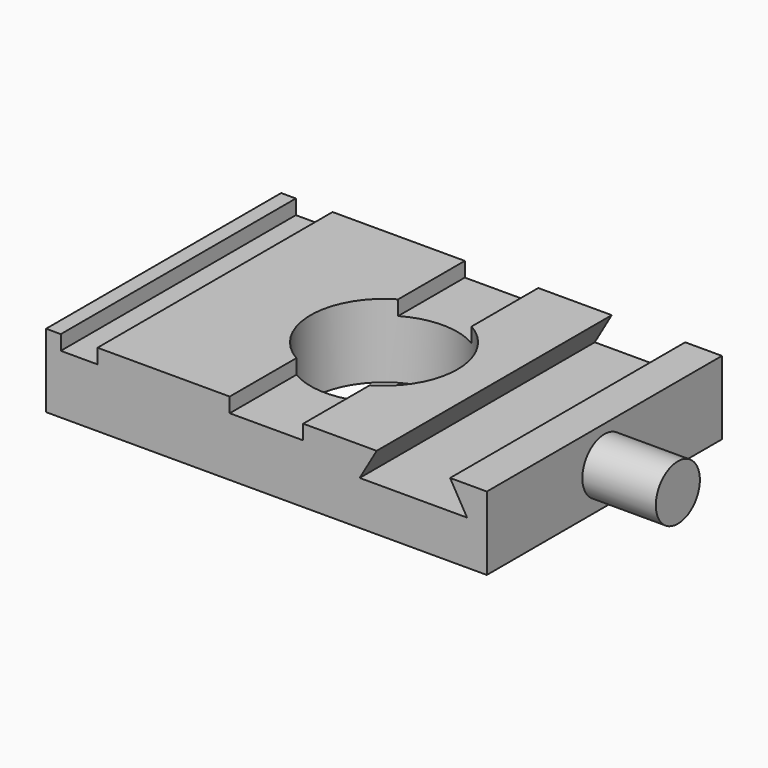
from build123d import *

# Parameters (mm, degrees)
F0_W     = 76.2
F0_H     = 50.8
F0_R     = 12.7
F1_DEPTH = 12.7
F2_W     = 6.35
F2_H     = 50.8
F3_DEPTH = 2.54
F5_DEPTH = 50.801
F6_R     = 4.7625
F7_DEPTH = 12.7


with BuildPart() as f1:
    # F0 (on Top) → F1 (new body)
    with BuildSketch(Plane.XY):
        Rectangle(F0_W, F0_H)
        Circle(F0_R, mode=Mode.SUBTRACT)
    extrude(amount=F1_DEPTH)

    # F2 (on face) → F3 (cut)
    with BuildSketch(Plane.XY.offset(12.7)):
        with Locations((-32.385, 0)):
            Rectangle(F2_W, F2_H)
        with BuildLine():
            Line((-6.35, -10.9985226281), (-6.35, -25.4))
            Line((-6.35, -25.4), (6.35, -25.4))
            Line((6.35, -25.4), (6.35, -10.9985226281))
            ThreePointArc((6.35, -10.9985226281), (0, -12.7), (-6.35, -10.9985226281))
        make_face()
        with BuildLine():
            ThreePointArc((6.35, 10.9985226281), (0, 12.7), (-6.35, 10.9985226281))
            Line((-6.35, 10.9985226281), (-6.35, -10.9985226281))
            ThreePointArc((-6.35, -10.9985226281), (0, -12.7), (6.35, -10.9985226281))
            Line((6.35, -10.9985226281), (6.35, 10.9985226281))
        make_face()
        with BuildLine():
            Line((6.35, 25.4), (-6.35, 25.4))
            Line((-6.35, 25.4), (-6.35, 10.9985226281))
            ThreePointArc((-6.35, 10.9985226281), (0, 12.7), (6.35, 10.9985226281))
            Line((6.35, 10.9985226281), (6.35, 25.4))
        make_face()
    extrude(amount=-F3_DEPTH, mode=Mode.SUBTRACT)

    # F4 (on face) → F5 (cut, through all)
    with BuildSketch(Plane.XZ.offset(25.4)):
        Polygon((31.75, 12.7), (19.05, 12.7), (16.1170606325, 7.62), (34.6829393675, 7.62), align=None)
    extrude(amount=-F5_DEPTH, mode=Mode.SUBTRACT)

    # F6 (on face) → F7 (join)
    with BuildSketch(Plane.YZ.offset(38.1)):
        with Locations((0, 6.35)):
            Circle(F6_R)
    extrude(amount=F7_DEPTH)


solid = f1.part
